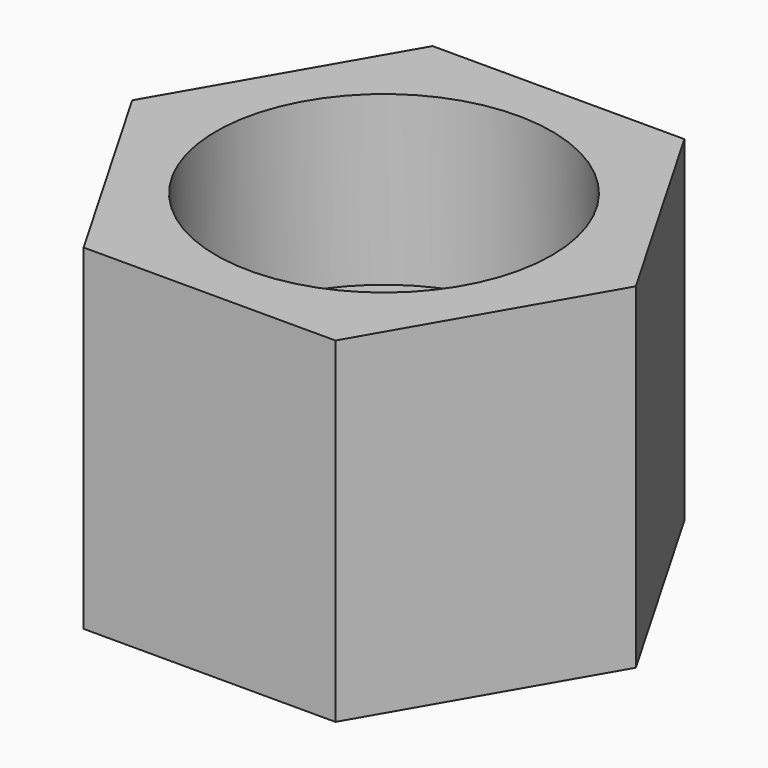
from build123d import *

# Parameters (mm, degrees)
F1_DEPTH = 25.4
F3_DEPTH = 25.4
F4_R     = 25.4
F5_DEPTH = 25.4


with BuildPart() as f1:
    # F0 (on Top) → F1 (new body)
    with BuildSketch(Plane.XY):
        Polygon((19.05, 32.995568), (-19.05, 32.995568), (-38.1, 0), (-19.05, -32.995568), (19.05, -32.995568), (38.1, 0), align=None)
        Polygon((-19.264717, -6.259486), (-11.90625, 16.387547), (11.90625, 16.387547), (19.264717, -6.259486), (0, -20.256122), align=None, mode=Mode.SUBTRACT)
    extrude(amount=F1_DEPTH)

    # F2 (on face) → F3 (join)
    with BuildSketch(Plane.XY.offset(25.4)):
        Polygon((0, -20.256122), (19.264717, -6.259486), (11.90625, 16.387547), (-11.90625, 16.387547), (-19.264717, -6.259486), align=None)
        Polygon((19.05, -32.995568), (38.1, 0), (19.05, 32.995568), (-19.05, 32.995568), (-38.1, 0), (-19.05, -32.995568), align=None)
        Polygon((11.90625, 16.387547), (19.264717, -6.259486), (0, -20.256122), (-19.264717, -6.259486), (-11.90625, 16.387547), align=None, mode=Mode.SUBTRACT)
    extrude(amount=F3_DEPTH)

    # F4 (on face) → F5 (cut)
    with BuildSketch(Plane.XY.offset(50.8)):
        Circle(F4_R)
    extrude(amount=-F5_DEPTH, mode=Mode.SUBTRACT)


solid = f1.part
